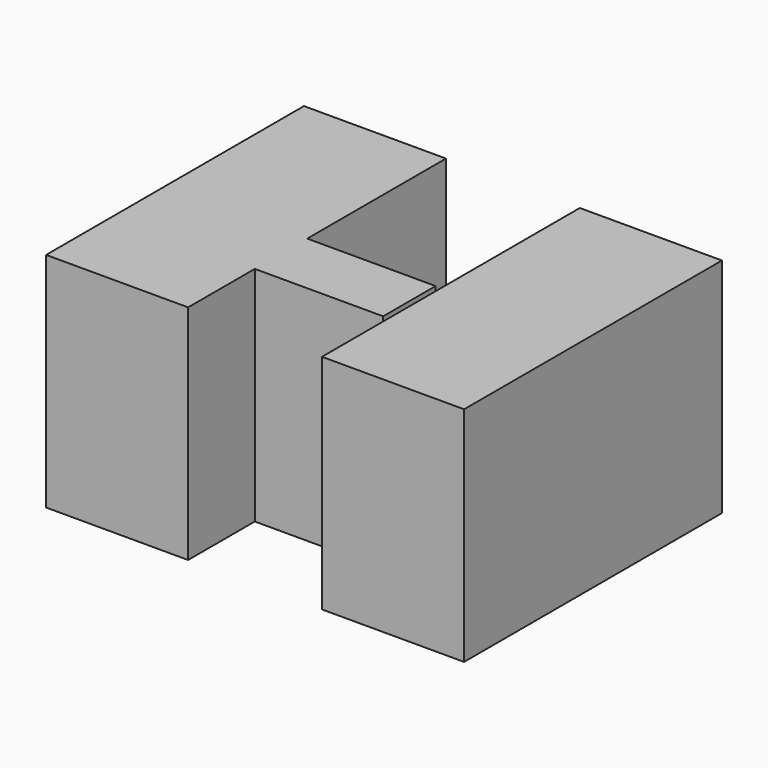
from build123d import *

# Parameters (mm, degrees)
F0_W     = 16.2306
F0_H     = 36.8046
F1_DEPTH = 25.4


with BuildPart() as f1:
    # F0 (on Top) → F1 (new body)
    with BuildSketch(Plane.XY):
        Polygon((-36.49579, 12.009297), (-36.49579, 9.51386), (-21.835089, 9.51386), (-21.835089, 17.000175), (-36.49579, 17.000175), align=None)
        with Locations((-13.095927, 18.4023)):
            Rectangle(F0_W, F0_H)
        Polygon((-52.716143, -0.003118), (-36.49579, -0.003118), (-36.49579, 9.51386), (-36.49579, 12.009297), (-36.49579, 17.000175), (-36.49579, 21.991052), (-36.49579, 36.8046), (-52.716143, 36.8046), align=None)
    extrude(amount=F1_DEPTH)


solid = f1.part
